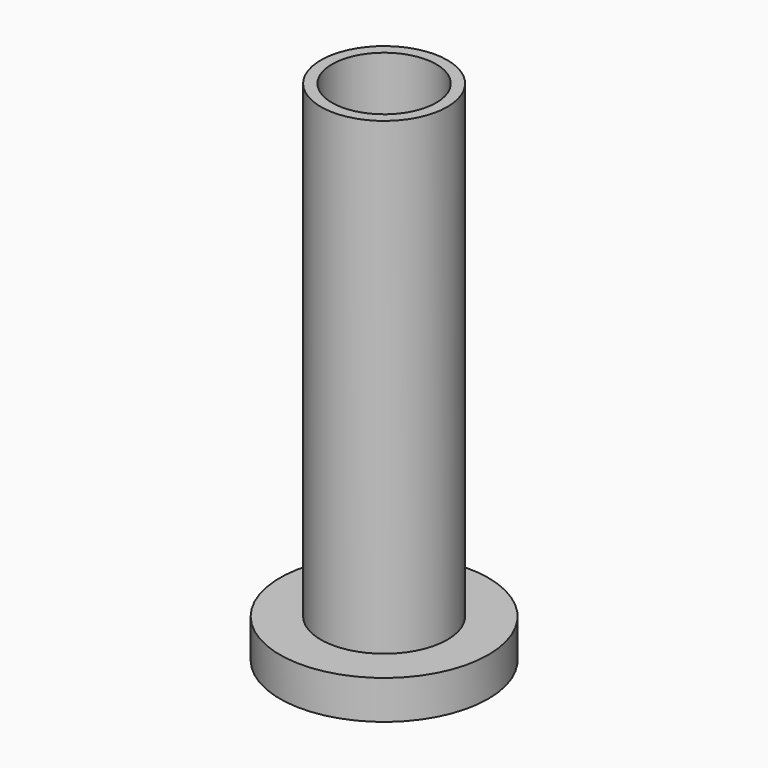
from build123d import *

# Parameters (mm, degrees)
SKETCH003_R     = 70
PAD001_DEPTH    = 26
SKETCH004_R     = 42.5
PAD002_DEPTH    = 315
SKETCH005_R     = 35
POCKET002_DEPTH = 315


with BuildPart() as part:
    # Sketch003 → Pad001 (new body)
    with BuildSketch(Plane.XY):
        Circle(SKETCH003_R)
    extrude(amount=PAD001_DEPTH)

    # Sketch004 (on Face3 of Pad001) → Pad002 (join)
    with BuildSketch(Plane.XY.offset(26)):
        Circle(SKETCH004_R)
    extrude(amount=PAD002_DEPTH)

    # Sketch005 (on Face5 of Pad002) → Pocket002 (cut)
    with BuildSketch(Plane.XY.offset(341)):
        Circle(SKETCH005_R)
    extrude(amount=-POCKET002_DEPTH, mode=Mode.SUBTRACT)


with BuildPart() as part_1:
    # Body001 placement: moved
    add(part.part.moved(Location((0, 445, 45))))


solid = part_1.part
